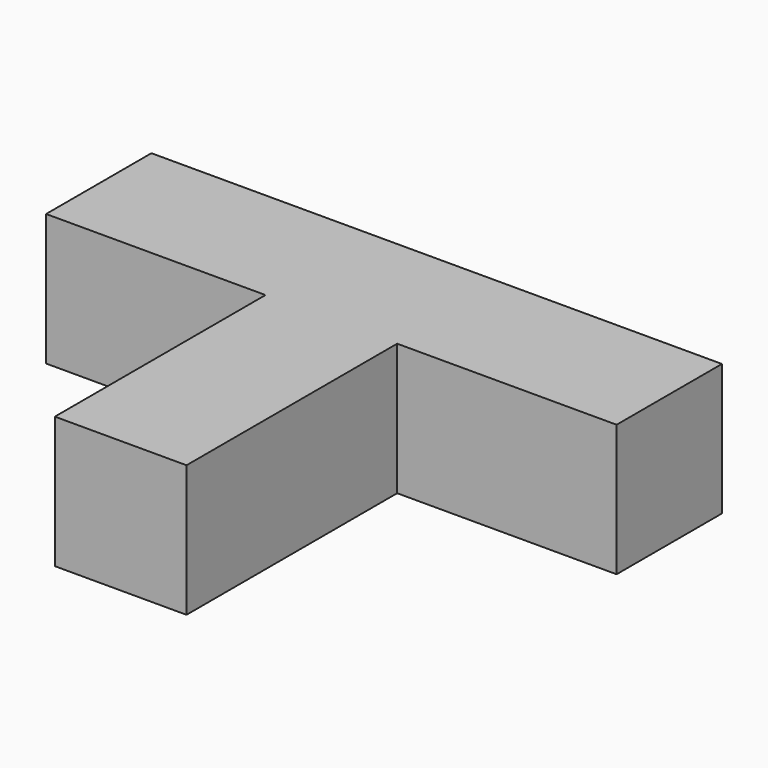
from build123d import *

# Parameters (mm, degrees)
F0_W     = 15
F0_H     = 30
F1_DEPTH = 15


with BuildPart() as f1:
    # F0 (on Top) → F1 (new body)
    with BuildSketch(Plane.XY):
        with Locations((7.5, 15)):
            Rectangle(F0_W, F0_H)
        Polygon((-25, 30), (0, 30), (15, 30), (40, 30), (40, 45), (-25, 45), align=None)
    extrude(amount=F1_DEPTH)


solid = f1.part
